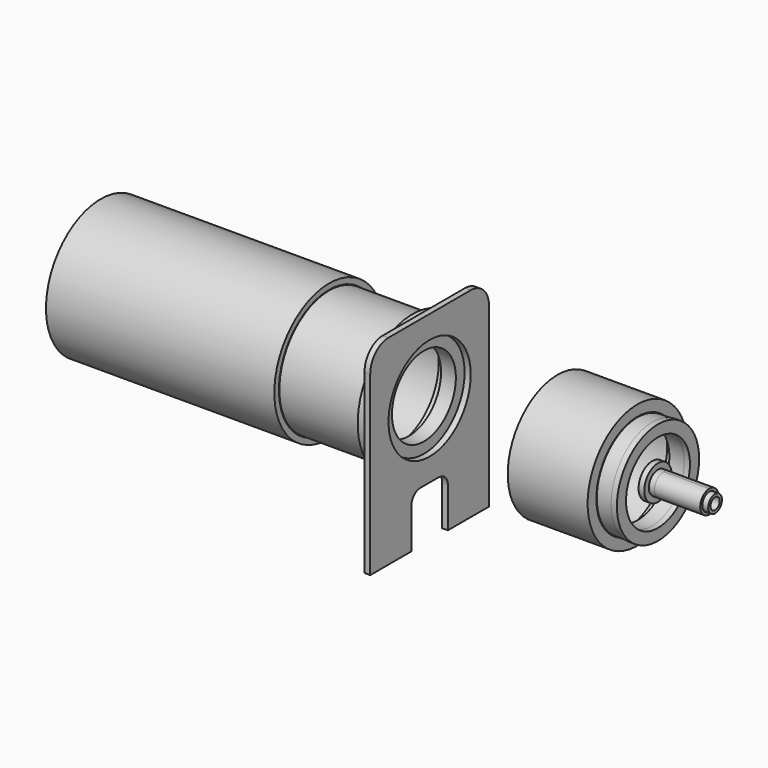
from build123d import *

# Parameters (mm, degrees)
F0_R      = 60
F0_R_2    = 55
F1_DEPTH  = 200
F2_R      = 54.5
F2_R_2    = 50
F3_DEPTH  = 70
F4_R      = 50
F4_R_2    = 45
F5_DEPTH  = 10
F6_R      = 44.5
F6_R_2    = 35
F7_DEPTH  = 13
F8_R      = 60
F8_R_2    = 45
F9_DEPTH  = 10
F10_R     = 45
F10_W     = 45
F10_H     = 45
F11_DEPTH = 5
F12_R     = 20
F13_R     = 10
F16_R     = 35
F16_R_2   = 32.5
F17_DEPTH = 5
F18_R     = 45
F19_DEPTH = 5
F20_R     = 35
F20_R_2   = 15
F21_DEPTH = 10
F22_R     = 7.5
F22_R_2   = 5
F23_DEPTH = 50
F22_R_3   = 10
F24_DEPTH = 5
F25_R     = 7.75
F26_DEPTH = 40


with BuildPart() as f1:
    # F0 (on Right) → F1 (new body)
    with BuildSketch(Plane.YZ):
        Circle(F0_R)
        Circle(F0_R_2, mode=Mode.SUBTRACT)
    extrude(amount=F1_DEPTH)


with BuildPart() as f3:
    # F2 (on face) → F3 (new body)
    with BuildSketch(Plane.YZ.offset(200)):
        Circle(F2_R)
        Circle(F2_R_2, mode=Mode.SUBTRACT)
    extrude(amount=F3_DEPTH)

    # F4 (on face) → F5 (join)
    with BuildSketch(Plane.YZ.offset(270)):
        Circle(F4_R)
        Circle(F4_R_2, mode=Mode.SUBTRACT)
    extrude(amount=-F5_DEPTH)


with BuildPart() as f7:
    # F6 (on face) → F7 (new body)
    with BuildSketch(Plane.YZ.offset(270)):
        Circle(F6_R)
        Circle(F6_R_2, mode=Mode.SUBTRACT)
    extrude(amount=F7_DEPTH)


with BuildPart() as f9:
    # F8 (on face) → F9 (new body)
    with BuildSketch(Plane.YZ.offset(283)):
        Circle(F8_R)
        Circle(F8_R_2, mode=Mode.SUBTRACT)
    extrude(amount=-F9_DEPTH)


with BuildPart() as f11:
    # F10 (on face) → F11 (new body)
    with BuildSketch(Plane.YZ.offset(283)):
        Polygon((65, 65), (-65, 65), (-65, -65), (-20, -65), (20, -65), (65, -65), align=None)
        Circle(F10_R, mode=Mode.SUBTRACT)
        with Locations((-42.5, -87.5)):
            Rectangle(F10_W, F10_H)
        with Locations((42.5, -87.5)):
            Rectangle(F10_W, F10_H)
    extrude(amount=F11_DEPTH)

    # F12
    f12_edges = [f11.edges().sort_by_distance(p)[0] for p in [
        (285.5, -65, 65),
        (285.5, 65, 65),
    ]]
    fillet(f12_edges, radius=F12_R)

    # F13
    f13_edges = [f11.edges().sort_by_distance(p)[0] for p in [
        (285.5, -20, -65),
        (285.5, 20, -65),
    ]]
    fillet(f13_edges, radius=F13_R)


with BuildPart() as f14_1:
    # F14: copy of F3
    add(f3.part.moved(Location((200, 0, 0))))


with BuildPart() as f15_1:
    # F15: copy of F7
    add(f7.part.moved(Location((200, 0, 0))))


with BuildPart() as f17:
    # F16 (on face) → F17 (new body)
    with BuildSketch(Plane.YZ.offset(483)):
        Circle(F16_R)
        Circle(F16_R_2, mode=Mode.SUBTRACT)
    extrude(amount=-F17_DEPTH)

    # F18 (on face) → F19 (join)
    with BuildSketch(Plane.YZ.offset(483)):
        Circle(F18_R)
    extrude(amount=F19_DEPTH)

    # F20 (on face) → F21 (cut, through all)
    with BuildSketch(Plane.YZ.offset(488)):
        Circle(F20_R)
        Circle(F20_R_2, mode=Mode.SUBTRACT)
    extrude(amount=-F21_DEPTH, mode=Mode.SUBTRACT)

    # F22 (on face) → F23 (join)
    with BuildSketch(Plane.YZ.offset(488)):
        Circle(F22_R)
        Circle(F22_R_2, mode=Mode.SUBTRACT)
    extrude(amount=F23_DEPTH)

    # F22 (on face) → F24 (join)
    with BuildSketch(Plane.YZ.offset(488)):
        Circle(F22_R_3)
        Circle(F22_R, mode=Mode.SUBTRACT)
    extrude(amount=F24_DEPTH)


with BuildPart() as f26:
    # F25 (on face) → F26 (new body)
    with BuildSketch(Plane.YZ.offset(493)):
        with BuildLine():
            ThreePointArc((0, 10), (-7.0710678119, -7.0710678119), (10, 0))
            ThreePointArc((10, 0), (7.0710678119, 7.0710678119), (0, 10))
        make_face()
        Circle(F25_R, mode=Mode.SUBTRACT)
    extrude(amount=F26_DEPTH)


solid = Compound([f1.part, f3.part, f7.part, f9.part, f11.part, f14_1.part, f15_1.part, f17.part, f26.part])
